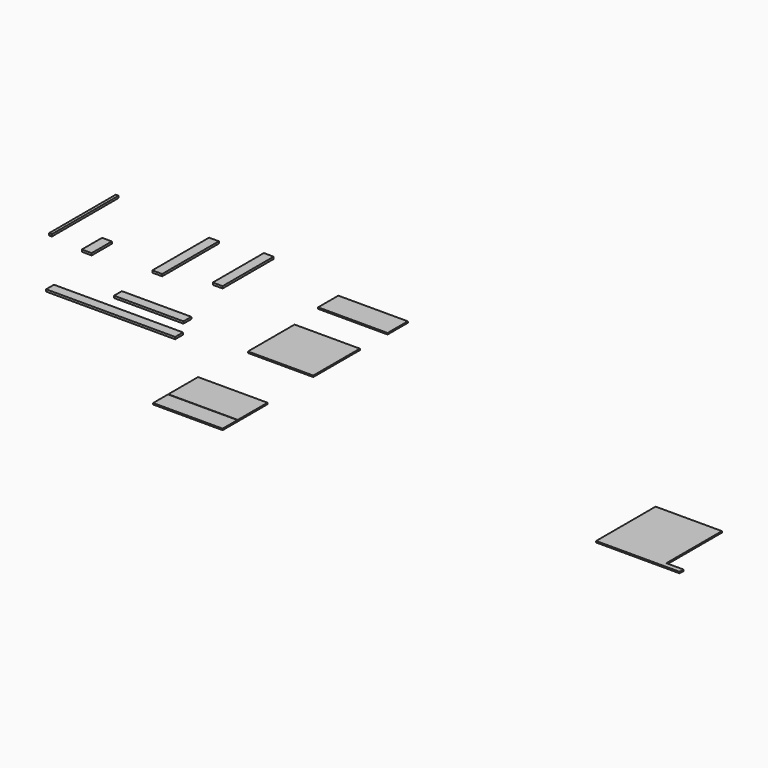
from build123d import *

# Parameters (mm, degrees)
F0_W     = 88.9
F0_H     = 577.85
F0_W_2   = 628.65
F0_H_2   = 88.9
F0_W_3   = 1168.4
F1_DEPTH = 19.05
F2_W     = 88.9
F2_H     = 641.35
F2_H_2   = 228.6
F2_W_2   = 25.4
F2_H_3   = 755.65
F3_DEPTH = 19.05
F4_W     = 628.65
F4_H     = 228.6
F4_W_2   = 590.55
F4_H_2   = 527.05
F4_H_3   = 508
F5_DEPTH = 12.7
F7_DEPTH = 12.7
F8_W     = 314.325
F8_H     = 6.35
F9_DEPTH = 2.54


with BuildPart() as f1:
    # F0 (on Top) → F1 (new body)
    with BuildSketch(Plane.XY):
        with Locations((-17.83051, 328.020797)):
            Rectangle(F0_W, F0_H)
        with Locations((-167.319894, -509.743035)):
            Rectangle(F0_W_2, F0_H_2)
        with Locations((-333.698159, -732.908174)):
            Rectangle(F0_W_3, F0_H_2)
    extrude(amount=F1_DEPTH)


with BuildPart() as f3:
    # F2 (on Top) → F3 (new body)
    with BuildSketch(Plane.XY):
        with Locations((-467.569783, 238.389238)):
            Rectangle(F2_W, F2_H)
        with Locations((-1056.510612, -29.699606)):
            Rectangle(F2_W, F2_H_2)
        with Locations((-1425.264039, 283.286252)):
            Rectangle(F2_W_2, F2_H_3)
    extrude(amount=F3_DEPTH)


with BuildPart() as f5:
    # F4 (on Top) → F5 (new body)
    with BuildSketch(Plane.XY):
        with Locations((1062.892174, 331.937718)):
            Rectangle(F4_W, F4_H)
        with Locations((1078.765246, -355.999207)):
            Rectangle(F4_W_2, F4_H_2)
        with Locations((1067.245578, -1400.323936)):
            Rectangle(F4_W, F4_H_3)
    extrude(amount=F5_DEPTH)

    # F8 (on face) → F9 (cut)
    with BuildSketch(Plane.XY.offset(12.7)):
        with Locations((910.083078, -1486.048936)):
            Rectangle(F8_W, F8_H)
        with Locations((1224.408078, -1486.048936)):
            Rectangle(F8_W, F8_H)
    extrude(amount=-F9_DEPTH, mode=Mode.SUBTRACT)


with BuildPart() as f7:
    # F6 (on Top) → F7 (new body)
    with BuildSketch(Plane.XY):
        Polygon((5117.397308, -674.510831), (4517.195308, -674.510831), (4517.195308, -1347.610831), (5117.397308, -1347.610831), (5272.845308, -1347.610831), (5272.845308, -1303.160831), (5117.397308, -1303.160831), align=None)
    extrude(amount=F7_DEPTH)


solid = Compound([f1.part, f3.part, f5.part, f7.part])
